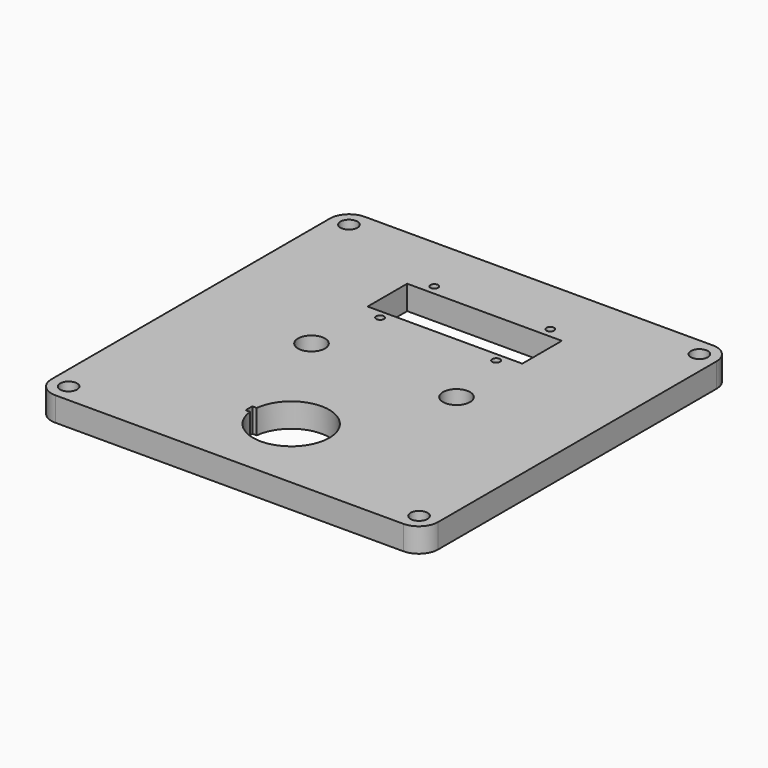
from build123d import *

# Parameters (mm, degrees)
F0_R     = 2.2225
F0_R_2   = 3.556
F0_R_3   = 1.016
F0_W     = 40.64
F0_H     = 13
F1_DEPTH = 6.35


with BuildPart() as f1:
    # F0 (on Top) → F1 (new body)
    with BuildSketch(Plane.XY):
        with BuildLine():
            Line((45.72, 50.8), (-45.72, 50.8))
            ThreePointArc((-45.72, 50.8), (-49.312102, 49.312102), (-50.8, 45.72))
            Line((-50.8, 45.72), (-50.8, -45.72))
            ThreePointArc((-50.8, -45.72), (-49.312102, -49.312102), (-45.72, -50.8))
            Line((-45.72, -50.8), (45.72, -50.8))
            ThreePointArc((45.72, -50.8), (49.312102, -49.312102), (50.8, -45.72))
            Line((50.8, -45.72), (50.8, 45.72))
            ThreePointArc((50.8, 45.72), (49.312102, 49.312102), (45.72, 50.8))
        make_face()
        with Locations((-46.0375, -46.0375)):
            Circle(F0_R, mode=Mode.SUBTRACT)
        with BuildLine():
            ThreePointArc((-9.939316, -29.38), (10, -30.48), (-9.939316, -31.58))
            Line((-9.939316, -31.58), (-11.1, -31.58))
            Line((-11.1, -31.58), (-11.1, -30.48))
            Line((-11.1, -30.48), (-11.1, -29.38))
            Line((-11.1, -29.38), (-9.939316, -29.38))
        make_face(mode=Mode.SUBTRACT)
        with Locations((-19.05, 0)):
            Circle(F0_R_2, mode=Mode.SUBTRACT)
        with Locations((46.0375, -46.0375)):
            Circle(F0_R, mode=Mode.SUBTRACT)
        with Locations((19.05, 0)):
            Circle(F0_R_2, mode=Mode.SUBTRACT)
        with Locations((-15.24, 17.78)):
            Circle(F0_R_3, mode=Mode.SUBTRACT)
        with Locations((-46.0375, 46.0375)):
            Circle(F0_R, mode=Mode.SUBTRACT)
        with Locations((-15.24, 35.56)):
            Circle(F0_R_3, mode=Mode.SUBTRACT)
        with Locations((0, 26.52)):
            Rectangle(F0_W, F0_H, mode=Mode.SUBTRACT)
        with Locations((15.24, 17.78)):
            Circle(F0_R_3, mode=Mode.SUBTRACT)
        with Locations((15.24, 35.56)):
            Circle(F0_R_3, mode=Mode.SUBTRACT)
        with Locations((46.0375, 46.0375)):
            Circle(F0_R, mode=Mode.SUBTRACT)
    extrude(amount=F1_DEPTH)


solid = f1.part
